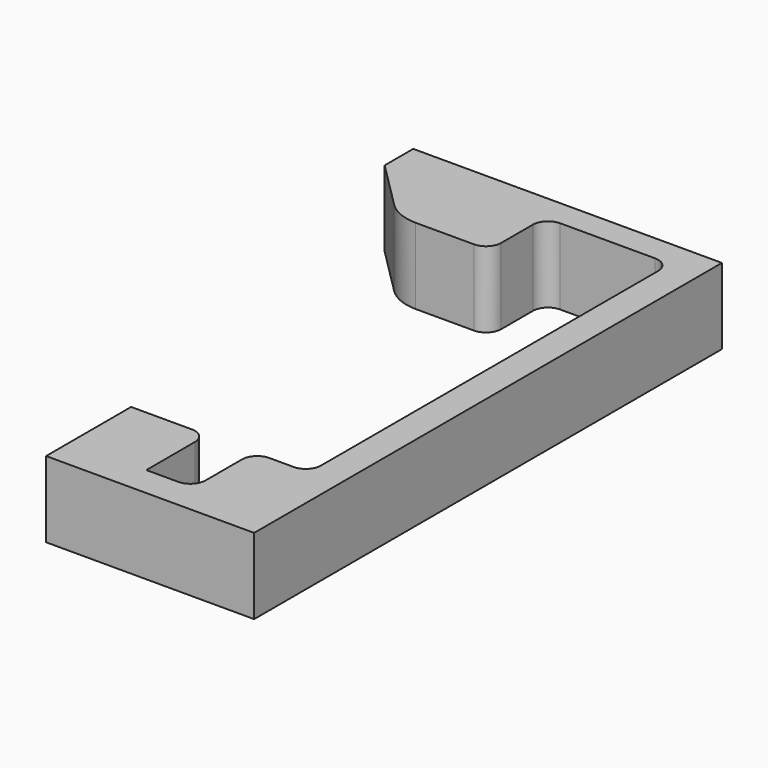
from build123d import *

# Parameters (mm, degrees)
PAD_DEPTH    = 5
FILLET_R     = 1
FILLET001_R  = 1
CHAMFER_SIZE = 4
FILLET002_R  = 3
FILLET003_R  = 1


with BuildPart() as part:
    # Sketch (on CopyPart__Feature) → Pad (new body)
    with BuildSketch(Plane(origin=(211.803644, 488.825915, 357.796851), x_dir=(-1, 0, 0), z_dir=(0, 0, 1))):
        Polygon((3.2, 28.8), (-0.4, 28.8), (-0.4, -0.95), (7.85, -0.95), (7.85, 3.65), (17.92547, 3.65), (17.92547, -2.7), (7.85, -2.7), (-2.4, -2.7), (-2.4, 35.8), (11.3, 35.8), (11.3, 28.8), (6.3, 28.8), (6.3, 33.8), (3.2, 33.8), align=None)
    extrude(amount=PAD_DEPTH)

    # Fillet
    fillet_edges = [part.edges().sort_by_distance(p)[0] for p in [
        (203.953644, 489.775915, 360.296851),
        (212.203644, 489.775915, 360.296851),
        (212.203644, 460.025915, 360.296851),
        (205.503644, 460.025915, 360.296851),
    ]]
    fillet(fillet_edges, radius=FILLET_R)

    # Fillet001
    fillet001_edges = [part.edges().sort_by_distance(p)[0] for p in [
        (208.603644, 460.025915, 360.296851),
        (208.603644, 455.025915, 360.296851),
    ]]
    fillet(fillet001_edges, radius=FILLET001_R)

    # Chamfer
    chamfer_edges = [part.edges().sort_by_distance(p)[0] for p in [
        (193.878174, 485.175915, 360.296851),
    ]]
    chamfer(chamfer_edges, length=CHAMFER_SIZE)

    # Fillet002
    fillet002_edges = [part.edges().sort_by_distance(p)[0] for p in [
        (197.878174, 485.175915, 360.296851),
    ]]
    fillet(fillet002_edges, radius=FILLET002_R)

    # Fillet003
    fillet003_edges = [part.edges().sort_by_distance(p)[0] for p in [
        (203.953644, 485.175915, 360.296851),
    ]]
    fillet(fillet003_edges, radius=FILLET003_R)


solid = part.part
